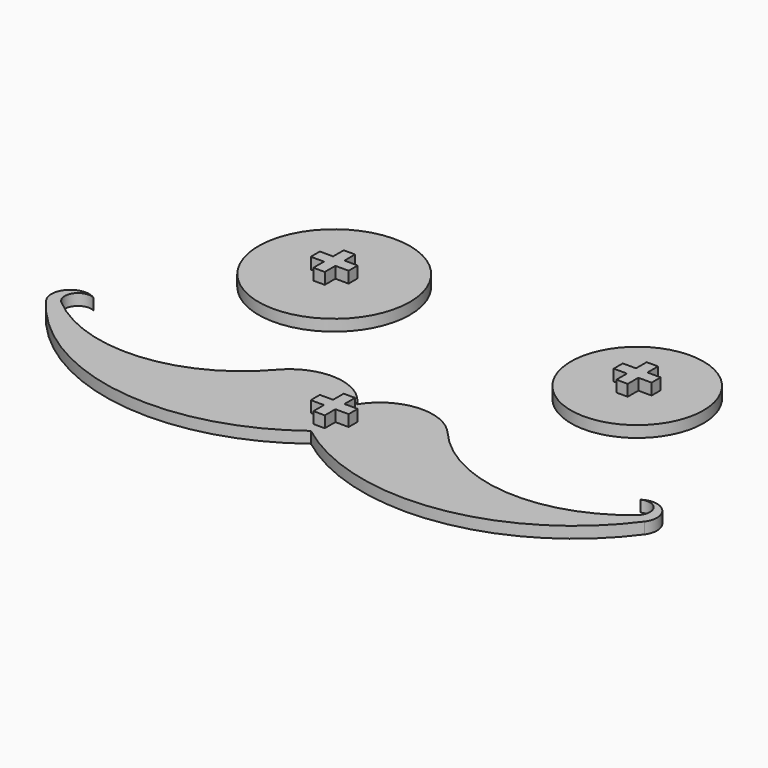
from build123d import *

# Parameters (mm, degrees)
F0_R     = 20
F1_DEPTH = 3
F0_R_2   = 17.5
F2_W     = 3
F2_H     = 3.5
F2_H_2   = 3
F2_W_2   = 3.5
F3_DEPTH = 3


with BuildPart() as f1:
    # F0 (on Top) → F1 (new body)
    with BuildSketch(Plane.XY):
        Circle(F0_R)
    extrude(amount=F1_DEPTH)

    # F2 (on face) → F3 (join)
    with BuildSketch(Plane.XY.offset(3)):
        with Locations((0, 3.25)):
            Rectangle(F2_W, F2_H)
        Rectangle(F2_W, F2_H_2)
        with Locations((-3.25, 0)):
            Rectangle(F2_W_2, F2_H_2)
        with Locations((3.25, 0)):
            Rectangle(F2_W_2, F2_H_2)
        with Locations((0, -3.25)):
            Rectangle(F2_W, F2_H)
    extrude(amount=F3_DEPTH)


with BuildPart() as f1b:
    # F0 (on Top) → F1, piece 2 (new body)
    with BuildSketch(Plane.XY):
        with Locations((80, 0)):
            Circle(F0_R_2)
    extrude(amount=F1_DEPTH)

    # F2 (on face) → F3, piece 2 (join)
    with BuildSketch(Plane.XY.offset(3)):
        with Locations((80, 3.25)):
            Rectangle(F2_W, F2_H)
        with Locations((76.75, 0)):
            Rectangle(F2_W_2, F2_H_2)
        with Locations((80, 0)):
            Rectangle(F2_W, F2_H_2)
        with Locations((83.25, 0)):
            Rectangle(F2_W_2, F2_H_2)
        with Locations((80, -3.25)):
            Rectangle(F2_W, F2_H)
    extrude(amount=F3_DEPTH)


with BuildPart() as f1c:
    # F0 (on Top) → F1, piece 3 (new body)
    with BuildSketch(Plane.XY):
        with BuildLine():
            ThreePointArc((62.5483958907, -40.7677120506), (50.8326300349, -35.9082805882), (40, -42.5058081746))
            ThreePointArc((40, -42.5058081746), (29.1673699651, -35.9082805882), (17.4516041093, -40.7677120506))
            ThreePointArc((17.4516041093, -40.7677120506), (-8.4033131949, -53.9494336876), (-36.022333509, -45.0374052423))
            ThreePointArc((-36.022333509, -45.0374052423), (-36.6939821603, -40.465557931), (-32.2462852457, -39.2122056641))
            ThreePointArc((-32.2462852457, -39.2122056641), (-38.6022003017, -39.9747543309), (-38.9988817551, -46.3639468067))
            ThreePointArc((-38.9988817551, -46.3639468067), (-1.8809505058, -68.6292182352), (40, -57.6990253387))
            ThreePointArc((40, -57.6990253387), (81.8809505058, -68.6292182352), (118.9988817551, -46.3639468067))
            ThreePointArc((118.9988817551, -46.3639468067), (118.6022003017, -39.9747543309), (112.2462852457, -39.2122056641))
            ThreePointArc((112.2462852457, -39.2122056641), (116.6939821603, -40.465557931), (116.022333509, -45.0374052423))
            ThreePointArc((116.022333509, -45.0374052423), (88.4033131949, -53.9494336876), (62.5483958907, -40.7677120506))
        make_face()
    extrude(amount=F1_DEPTH)

    # F2 (on face) → F3, piece 3 (join)
    with BuildSketch(Plane.XY.offset(3)):
        with Locations((40, -46.75)):
            Rectangle(F2_W, F2_H)
        with Locations((40, -50)):
            Rectangle(F2_W, F2_H_2)
        with Locations((36.75, -50)):
            Rectangle(F2_W_2, F2_H_2)
        with Locations((43.25, -50)):
            Rectangle(F2_W_2, F2_H_2)
        with Locations((40, -53.25)):
            Rectangle(F2_W, F2_H)
    extrude(amount=F3_DEPTH)


solid = Compound([f1.part, f1b.part, f1c.part])
